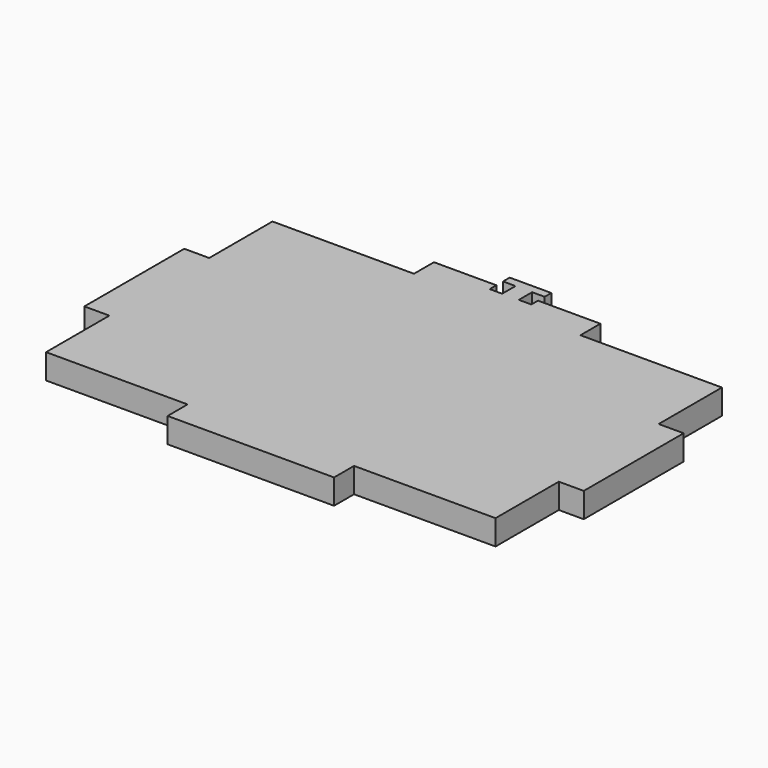
from build123d import *

# Parameters (mm, degrees)
F1_DEPTH = 3


with BuildPart() as f1:
    # F0 (on Top) → F1 (new body)
    with BuildSketch(Plane.XY):
        Polygon((10, 17), (10, 20), (2.5, 20), (2.5, 19), (2.5, 18), (0, 16), (-2.5, 18), (-2.5, 19), (-2.5, 19.7), (-2.5, 20), (-10, 20), (-10, 17), (-27, 17), (-27, 7.5), (-30, 7.5), (-30, -7.5), (-27, -7.5), (-27, -17), (-10, -17), (-10, -20), (10, -20), (10, -17), (27, -17), (27, -7.5), (30, -7.5), (30, 7.5), (27, 7.5), (27, 17), align=None)
        Polygon((0, 16), (2.5, 18), (0, 18), align=None)
        Polygon((0, 16), (0, 18), (-2.5, 18), align=None)
        Polygon((-2.5, 18), (0, 18), (0, 20), (-1, 20), (-1, 19), (-2.5, 19), align=None)
        Polygon((2.5, 18), (2.5, 19), (1, 19), (1, 20), (0, 20), (0, 18), align=None)
        Polygon((0, 20), (1, 20), (1, 21), (2.5, 21), (2.5, 22), (-2.5, 22), (-2.5, 21), (-1, 21), (-1, 20), align=None)
    extrude(amount=F1_DEPTH)


solid = f1.part
